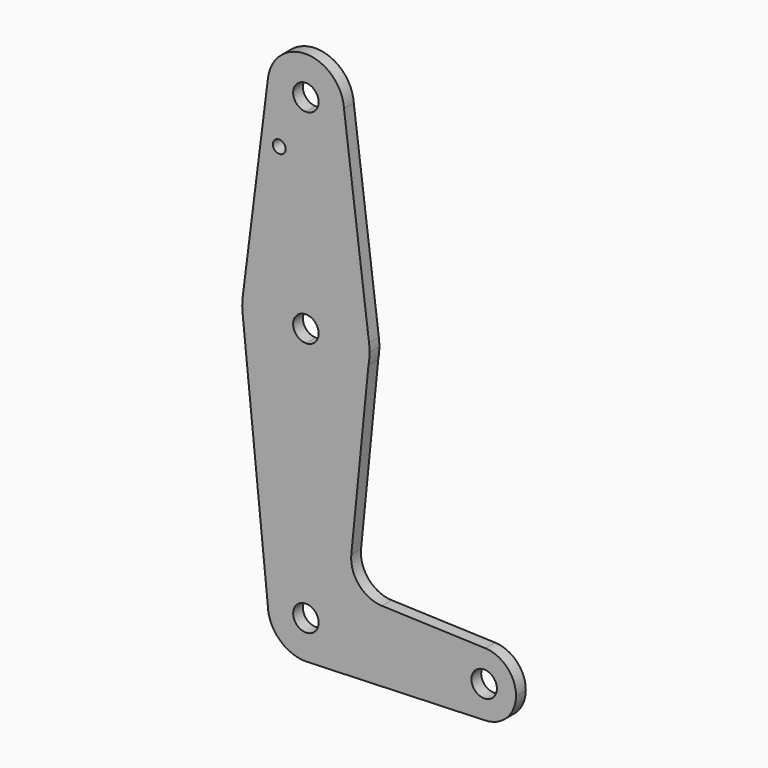
from build123d import *

# Parameters (mm, degrees)
F0_R     = 1.5875
F1_DEPTH = 3.048


with BuildPart() as f1:
    # F0 (on Front) → F1 (new body)
    with BuildSketch(Plane.XZ):
        with BuildLine():
            Line((-9.4505846337, 115.4883066187), (-15.6605535185, 66.1005169668))
            ThreePointArc((-15.6605535185, 66.1005169668), (-10.2648043701, 75.609889192), (4.07e-08, 79.375))
            Line((4.07e-08, 79.375), (1.058e-07, 104.775))
            ThreePointArc((1.058e-07, 104.775), (-7.1429770423, 107.9989284949), (-9.4505846337, 115.4883066187))
        make_face()
        with Locations((-6.6423970275, 101.3071238995)):
            Circle(F0_R, mode=Mode.SUBTRACT)
        with BuildLine():
            Line((1.058e-07, 104.775), (4.07e-08, 79.375))
            ThreePointArc((4.07e-08, 79.375), (10.498184717, 75.408137665), (15.7497737073, 65.4900384843))
            Line((15.7497737073, 65.4900384843), (9.5055059226, 114.9090850772))
            ThreePointArc((9.5055059226, 114.9090850772), (9.5201253309, 114.6046984802), (9.5250001302, 114.3))
            ThreePointArc((9.5250001302, 114.3), (6.7351922124, 107.5648079006), (1.058e-07, 104.775))
        make_face()
        with BuildLine():
            ThreePointArc((9.5055059226, 114.9090850772), (0.2909098729, 123.8205565237), (-9.4505846337, 115.4883066187))
            ThreePointArc((-9.4505846337, 115.4883066187), (-7.1429770423, 107.9989284949), (1.058e-07, 104.775))
            ThreePointArc((1.058e-07, 104.775), (6.7351922124, 107.5648079006), (9.5250001302, 114.3))
            ThreePointArc((9.5250001302, 114.3), (9.5201253309, 114.6046984802), (9.5055059226, 114.9090850772))
        make_face()
        with BuildLine():
            ThreePointArc((3.1750001302, 114.3), (2.2450641576, 112.0549359669), (1.221e-07, 111.125))
            ThreePointArc((1.221e-07, 111.125), (-2.2450638971, 116.5450640331), (3.1750001302, 114.3))
        make_face(mode=Mode.SUBTRACT)
        with BuildLine():
            ThreePointArc((-15.6605535185, 66.1005169668), (-15.8669691678, 64.0048905108), (-15.7942028036, 61.9003804205))
            ThreePointArc((-15.7942028036, 61.9003804205), (-10.644756084, 51.722700101), (0, 47.625))
            Line((0, 47.625), (0, 60.325))
            ThreePointArc((0, 60.325), (-3.175, 63.5000000041), (8.1e-09, 66.675))
            Line((8.1e-09, 66.675), (4.07e-08, 79.375))
            ThreePointArc((4.07e-08, 79.375), (-10.2648043701, 75.609889192), (-15.6605535185, 66.1005169668))
        make_face()
        with BuildLine():
            Line((0, 60.325), (0, 47.625))
            ThreePointArc((0, 47.625), (10.1195014995, 51.268429602), (15.5940025177, 60.5263304691))
            ThreePointArc((15.5940025177, 60.5263304691), (15.8045945055, 62.0065417595), (15.875, 63.5))
            ThreePointArc((15.875, 63.5), (15.8436624965, 64.496987311), (15.7497737073, 65.4900384843))
            ThreePointArc((15.7497737073, 65.4900384843), (10.498184717, 75.408137665), (4.07e-08, 79.375))
            Line((4.07e-08, 79.375), (8.1e-09, 66.675))
            ThreePointArc((8.1e-09, 66.675), (2.2450640331, 65.7450640274), (3.175, 63.5))
            ThreePointArc((3.175, 63.5), (2.2450640303, 61.2549359697), (0, 60.325))
        make_face()
        with BuildLine():
            Line((0, 47.625), (0, 9.525))
            ThreePointArc((0, 9.525), (6.7351920908, 6.7351920908), (9.525, 0))
            Line((9.525, 0), (36.5125, 0))
            ThreePointArc((36.5125, 0), (38.9380895153, 5.7116327839), (44.7324052746, 7.9324746146))
            Line((44.7324052746, 7.9324746146), (18.949669217, 8.8503698502))
            ThreePointArc((18.949669217, 8.8503698502), (13.2451605829, 11.5651319149), (11.3213859127, 17.5826432646))
            Line((11.3213859127, 17.5826432646), (15.5940025177, 60.5263304691))
            ThreePointArc((15.5940025177, 60.5263304691), (10.1195014995, 51.268429602), (0, 47.625))
        make_face()
        with BuildLine():
            Line((-15.7942028036, 61.9003804205), (-9.525, 0))
            ThreePointArc((-9.525, 0), (-6.7351920908, 6.7351920908), (0, 9.525))
            Line((0, 9.525), (0, 47.625))
            ThreePointArc((0, 47.625), (-10.644756084, 51.722700101), (-15.7942028036, 61.9003804205))
        make_face()
        with BuildLine():
            ThreePointArc((0, 9.525), (-6.7351920908, 6.7351920908), (-9.525, 0))
            ThreePointArc((-9.525, 0), (-6.7351920908, -6.7351920908), (0, -9.525))
            Line((0, -9.525), (0.6773435479, -9.500885786))
            ThreePointArc((0.6773435479, -9.500885786), (6.9705567315, -6.4912990883), (9.525, 0))
            Line((9.525, 0), (3.175, 0))
            ThreePointArc((3.175, 0), (-2.2450640303, -2.2450640303), (0, 3.175))
            Line((0, 3.175), (0, 9.525))
        make_face()
        with BuildLine():
            ThreePointArc((9.525, 0), (6.7351920908, 6.7351920908), (0, 9.525))
            Line((0, 9.525), (0, 3.175))
            ThreePointArc((0, 3.175), (2.2450640303, 2.2450640303), (3.175, 0))
            Line((3.175, 0), (9.525, 0))
        make_face()
        with BuildLine():
            ThreePointArc((9.525, 0), (6.9705567315, -6.4912990883), (0.6773435479, -9.500885786))
            Line((0.6773435479, -9.500885786), (44.7324052746, -7.9324746146))
            ThreePointArc((44.7324052746, -7.9324746146), (38.9380895153, -5.7116327839), (36.5125, 0))
            Line((36.5125, 0), (9.525, 0))
        make_face()
        with BuildLine():
            ThreePointArc((36.5125, 0), (38.9380895153, -5.7116327839), (44.7324052746, -7.9324746146))
            ThreePointArc((44.7324052746, -7.9324746146), (50.1616327839, -5.5119104847), (52.3875, 0))
            ThreePointArc((52.3875, 0), (50.1616327839, 5.5119104847), (44.7324052746, 7.9324746146))
            ThreePointArc((44.7324052746, 7.9324746146), (38.9380895153, 5.7116327839), (36.5125, 0))
        make_face()
        with BuildLine():
            ThreePointArc((47.625, 0), (44.45, -3.175), (41.275, 0))
            ThreePointArc((41.275, 0), (44.45, 3.175), (47.625, 0))
        make_face(mode=Mode.SUBTRACT)
    extrude(amount=F1_DEPTH)


solid = f1.part
